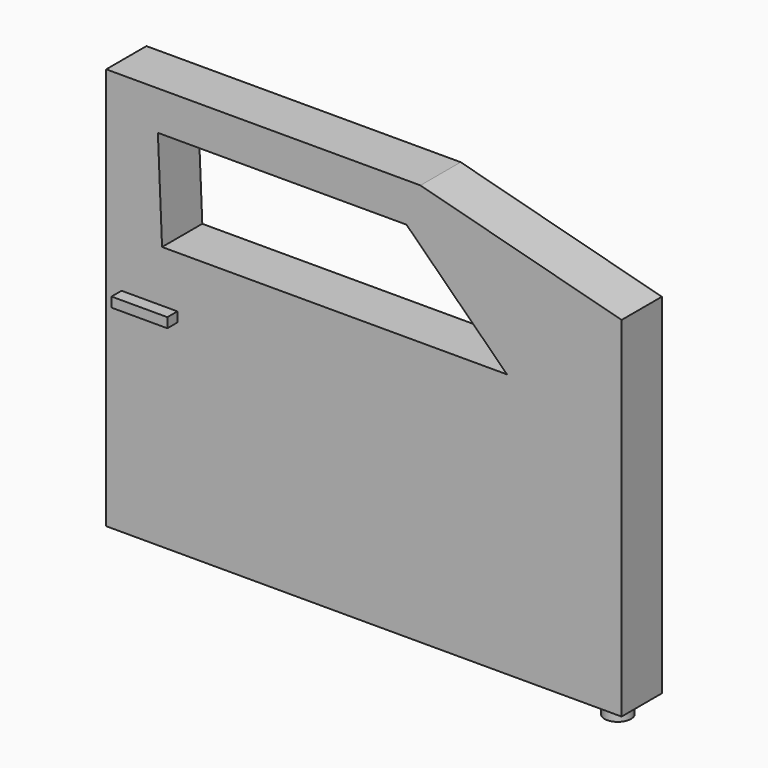
from build123d import *

# Parameters (mm, degrees)
F0_W      = 93.7260054052
F0_H      = 73.1520000845
F1_DEPTH  = 10.16
F3_DEPTH  = 10.16
F5_DEPTH  = 10.16
F6_DEPTH  = 25.4
F7_W      = 10.1599991322
F7_H      = 1.7780002672
F8_DEPTH  = 2.286
F9_W      = 26.4160018414
F9_H      = 73.1520000845
F10_DEPTH = 127
F12_R     = 2.3962316347
F12_R_2   = 2.1849898249
F13_DEPTH = 2.54


with BuildPart() as f1:
    # F0 (on Front) → F1 (new body)
    with BuildSketch(Plane.XZ):
        with Locations((0.8890014142, -5.3366450593)):
            Rectangle(F0_W, F0_H)
    extrude(amount=F1_DEPTH)

    # F2 (on face) → F3 (cut)
    with BuildSketch(Plane.XZ.offset(10.16)):
        Polygon((47.7520041168, 31.239354983), (11.1760003492, 31.239354983), (47.7520041168, 21.5873550624), align=None)
    extrude(amount=-F3_DEPTH, mode=Mode.SUBTRACT)

    # F4 (on face) → F5 (cut)
    with BuildSketch(Plane.XZ.offset(10.16)):
        Polygon((8.6359996349, 24.1273548454), (-36.5759991109, 24.1273548454), (-35.813998431, 6.0933548957), (26.9239991903, 6.0933548957), align=None)
    extrude(amount=-F5_DEPTH, mode=Mode.SUBTRACT)

    # F6 (add): a face of the model
    f6_faces = [f1.faces().sort_by_distance(p)[0] for p in [
        (1.4948059303, -10.16, -9.7731364868),
    ]]
    extrude(f6_faces, amount=F6_DEPTH)

    # F7 (on face) → F8 (join)
    with BuildSketch(Plane.XZ.offset(35.56)):
        with Locations((-38.1000004709, -4.1936453199)):
            Rectangle(F7_W, F7_H)
    extrude(amount=F8_DEPTH)

    # F9 (on face) → F10 (cut)
    with BuildSketch(Plane(origin=(-45.9740012884, 0, 0), x_dir=(0, -1, 0), z_dir=(-1, 0, 0))):
        with Locations((13.2080009207, -5.3366450593)):
            Rectangle(F9_W, F9_H)
    extrude(amount=-F10_DEPTH, mode=Mode.SUBTRACT)

    # F12 (on face) → F13 (join)
    with BuildSketch(Plane(origin=(0, 0, -41.9126451015), x_dir=(1, 0, 0), z_dir=(0, 0, -1))):
        with Locations((43.8149981201, 31.4933545887)):
            Circle(F12_R)
        with Locations((43.8149981201, 31.4933545887)):
            Circle(F12_R_2, mode=Mode.SUBTRACT)
    extrude(amount=F13_DEPTH)


solid = f1.part
